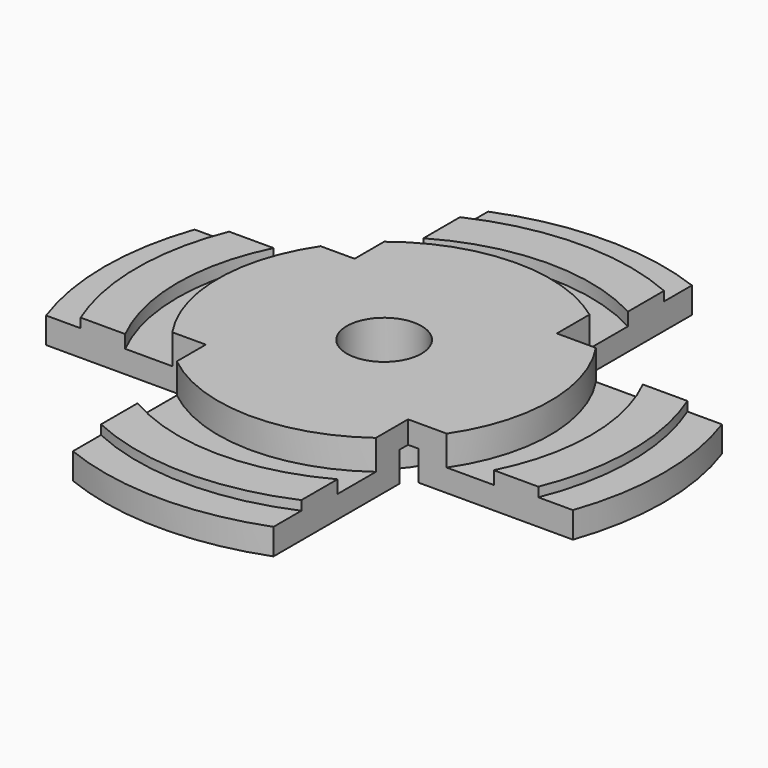
from build123d import *

# Parameters (mm, degrees)
F0_W     = 9.1925691813
F0_H     = 3
F0_W_2   = 5.4319724441
F0_W_3   = 4.3177194893
F0_H_2   = 3.4820325673
F3_DEPTH = 22.6


with BuildPart() as f1:
    # F0 (on Front) → F1 (revolve)
    with BuildSketch(Plane.XZ):
        Polygon((10, 0), (5, 0), (5, -10), (10, -10), (10, -3), align=None)
        with Locations((14.5962845907, -1.5)):
            Rectangle(F0_W, F0_H)
        Polygon((22.1925691813, 0), (19.1925691813, 0), (19.1925691813, -3), (19.1925691813, -7), (22.1925691813, -7), (22.1925691813, -4), align=None)
        with Locations((24.9085554034, -5.5)):
            Rectangle(F0_W_2, F0_H)
        Polygon((27.6245416254, -2.2644333243), (27.6245416254, -4), (27.6245416254, -7), (33.0565140694, -7), (33.0565140694, -3.5179674327), (33.0565140694, -2.2644333243), align=None)
        with Locations((35.2153738141, -5.2589837164)):
            Rectangle(F0_W_3, F0_H_2)
    revolve(axis=Axis((0, 0, -3.5477653146), (0, 0, -1)))

    # F2 (on Top) → F3 (intersect)
    with BuildSketch(Plane.XY):
        Polygon((13.1800509989, 12.3896356672), (13.1800509989, 40.6423024833), (-13.8652352616, 40.6423024833), (-13.8652352616, 12.3896356672), (-57.572349906, 12.3896356672), (-57.572349906, -12.4823693186), (-13.8652352616, -12.4823693186), (-13.8652352616, -44.5986427367), (13.1800509989, -44.5986427367), (13.1800509989, -12.4823693186), (53.2650314271, -12.4823693186), (53.2650314271, 12.3896356672), align=None)
    extrude(amount=-F3_DEPTH, mode=Mode.INTERSECT)


solid = f1.part
